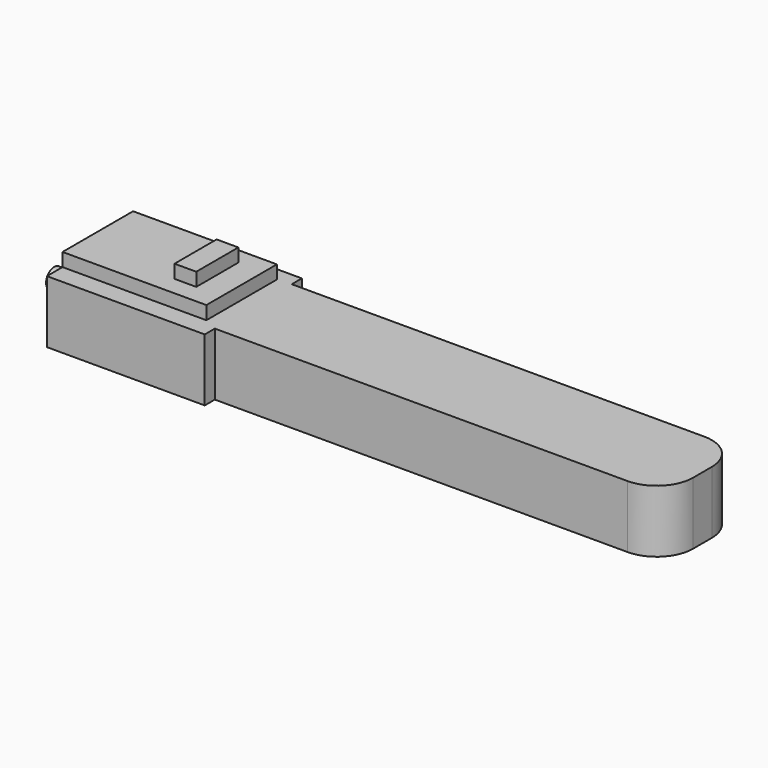
from build123d import *

# Parameters (mm, degrees)
F1_DEPTH = 26.162
F2_R     = 4.242227
F3_DEPTH = 6.35
F5_DEPTH = 5.588
F6_W     = 9.096682
F6_H     = 22.018083
F7_DEPTH = 5.588
F8_R     = 15.24


with BuildPart() as f1:
    # F0 (on Top) → F1 (new body)
    with BuildSketch(Plane.XY):
        Polygon((-127, -25.4), (-60.96, -25.4), (-60.96, -20.1168), (127, -20.1168), (127, 20.1168), (-60.96, 20.1168), (-60.96, 25.4), (-127, 25.4), align=None)
    extrude(amount=F1_DEPTH)

    # F2 (on face) → F3 (join)
    with BuildSketch(Plane(origin=(-127, 0, 0), x_dir=(0, -1, 0), z_dir=(-1, 0, 0))):
        with Locations((13.661651, 18.503753)):
            Circle(F2_R)
    extrude(amount=F3_DEPTH)

    # F4 (on face) → F5 (join)
    with BuildSketch(Plane.XY.offset(26.162)):
        Polygon((-66.817649, 19.667143), (-127, 19.667143), (-127, -17.230507), (-66.817649, -17.230507), (-66.817649, 1.218318), align=None)
    extrude(amount=F5_DEPTH)

    # F6 (on face) → F7 (join)
    with BuildSketch(Plane.XY.offset(31.75)):
        with Locations((-81.979908, 1.763641)):
            Rectangle(F6_W, F6_H)
    extrude(amount=F7_DEPTH)

    # F8
    f8_edges = [f1.edges().sort_by_distance(p)[0] for p in [
        (127, -20.1168, 13.081),
        (127, 20.1168, 13.081),
    ]]
    fillet(f8_edges, radius=F8_R)


solid = f1.part
